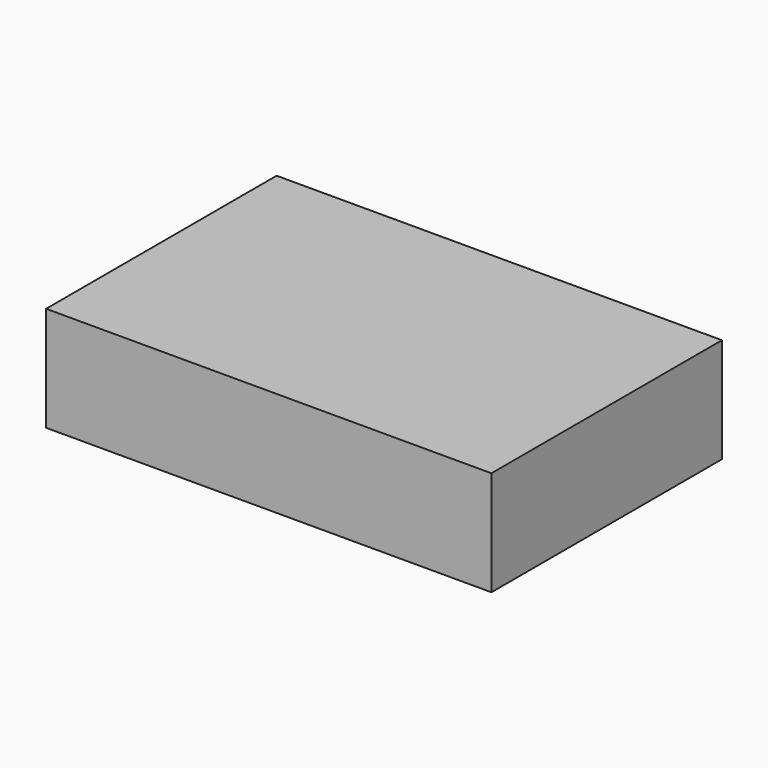
from build123d import *

# Parameters (mm, degrees)
F0_W = 17
F0_H = 11


with BuildPart() as f2:
    # F2: sweep along a path in F1
    with BuildLine(Plane.XZ) as f2_path:
        Line((0, 0), (0, 4))
    # F0 (on Top) → F2 (sweep)
    with BuildSketch(Plane.XY):
        Rectangle(F0_W, F0_H)
    sweep(path=f2_path.line)


solid = f2.part
